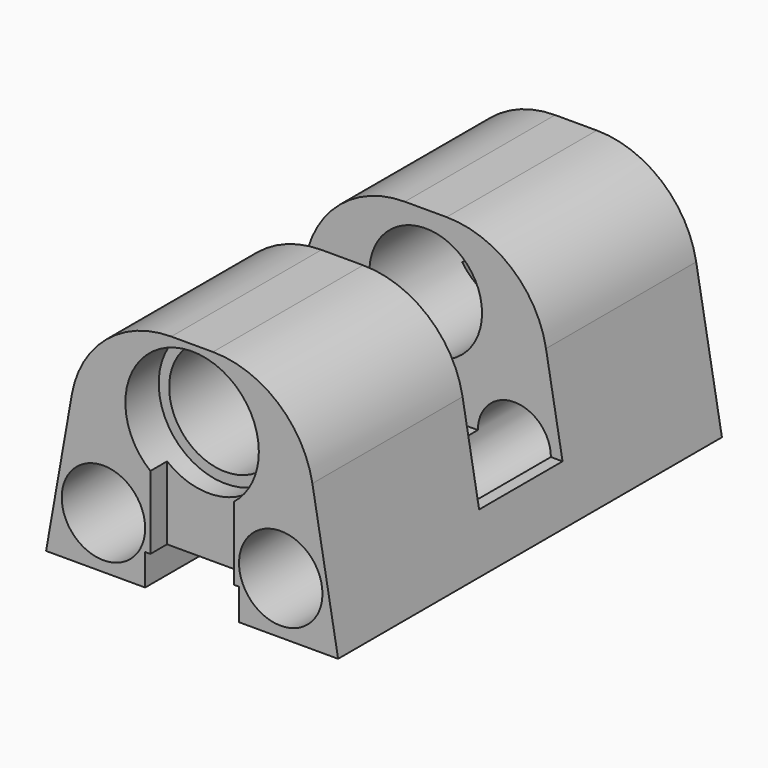
from build123d import *

# Parameters (mm, degrees)
PAD_DEPTH       = 11.5
SKETCH001_W     = 14
SKETCH001_H     = 5
POCKET_DEPTH    = 8.5
SKETCH002_R     = 1.75
POCKET001_DEPTH = 23.001
SKETCH003_R     = 2.7
POCKET002_DEPTH = 23.001
SKETCH004_R     = 2
POCKET003_DEPTH = 5
SKETCH005_W     = 4.5
SKETCH005_H     = 7.5
POCKET004_DEPTH = 4
SKETCH006_W     = 4
SKETCH006_H     = 7.5
POCKET005_DEPTH = 1
SKETCH007_W     = 4.5
SKETCH007_H     = 21
POCKET006_DEPTH = 1.5
SKETCH008_R     = 3.2
POCKET007_DEPTH = 2
SKETCH009_R     = 3.2
POCKET008_DEPTH = 2


with BuildPart() as part:
    # Sketch → Pad (new body, symmetric)
    with BuildSketch(Plane.XZ):
        with BuildLine():
            Line((-7, 0), (7, 0))
            Line((7, 0), (5.766491, 7))
            ThreePointArc((5.766491, 7), (4.111247, 9.867503), (1, 11))
            Line((-1, 11), (1, 11))
            ThreePointArc((-1, 11), (-4.111247, 9.867503), (-5.766491, 7))
            Line((-5.766491, 7), (-7, 0))
        make_face()
    extrude(amount=PAD_DEPTH, both=True)

    # Sketch001 → Pocket (cut)
    with BuildSketch(Plane(origin=(0, 0, 11), x_dir=(-1, 0, 0), z_dir=(0, 0, 1))):
        Rectangle(SKETCH001_W, SKETCH001_H)
    extrude(amount=-POCKET_DEPTH, mode=Mode.SUBTRACT)

    # Sketch002 → Pocket001 (cut, through all)
    with BuildSketch(Plane.XZ.offset(11.5)):
        with Locations((-4.25, 2.5)):
            Circle(SKETCH002_R)
        with Locations((4.25, 2.5)):
            Circle(SKETCH002_R)
    extrude(amount=-POCKET001_DEPTH, mode=Mode.SUBTRACT)

    # Sketch003 → Pocket002 (cut, through all)
    with BuildSketch(Plane.XZ.offset(11.5)):
        with Locations((0, 7.5)):
            Circle(SKETCH003_R)
    extrude(amount=-POCKET002_DEPTH, mode=Mode.SUBTRACT)

    # Sketch004 → Pocket003 (cut)
    with BuildSketch(Plane.XZ.offset(11.5)):
        with Locations((-4.25, 2.5)):
            Circle(SKETCH004_R)
        with Locations((4.25, 2.5)):
            Circle(SKETCH004_R)
    extrude(amount=-POCKET003_DEPTH, mode=Mode.SUBTRACT)

    # Sketch005 → Pocket004 (cut)
    with BuildSketch(Plane(origin=(0, 11.5, 0), x_dir=(1, 0, 0), z_dir=(0, 1, 0))):
        with Locations((0, -3.75)):
            Rectangle(SKETCH005_W, SKETCH005_H)
    extrude(amount=-POCKET004_DEPTH, mode=Mode.SUBTRACT)

    # Sketch006 → Pocket005 (cut)
    with BuildSketch(Plane.XZ.offset(11.5)):
        with Locations((0, 3.75)):
            Rectangle(SKETCH006_W, SKETCH006_H)
    extrude(amount=-POCKET005_DEPTH, mode=Mode.SUBTRACT)

    # Sketch007 → Pocket006 (cut)
    with BuildSketch(Plane(origin=(0, 0, 0), x_dir=(1, 0, 0), z_dir=(0, 0, -1))):
        with Locations((0, 1.5)):
            Rectangle(SKETCH007_W, SKETCH007_H)
    extrude(amount=-POCKET006_DEPTH, mode=Mode.SUBTRACT)

    # Sketch008 → Pocket007 (cut)
    with BuildSketch(Plane(origin=(0, 11.5, 0), x_dir=(1, 0, 0), z_dir=(0, 1, 0))):
        with Locations((0, -7.5)):
            Circle(SKETCH008_R)
    extrude(amount=-POCKET007_DEPTH, mode=Mode.SUBTRACT)

    # Sketch009 → Pocket008 (cut)
    with BuildSketch(Plane.XZ.offset(11.5)):
        with Locations((0, 7.5)):
            Circle(SKETCH009_R)
    extrude(amount=-POCKET008_DEPTH, mode=Mode.SUBTRACT)


solid = part.part
